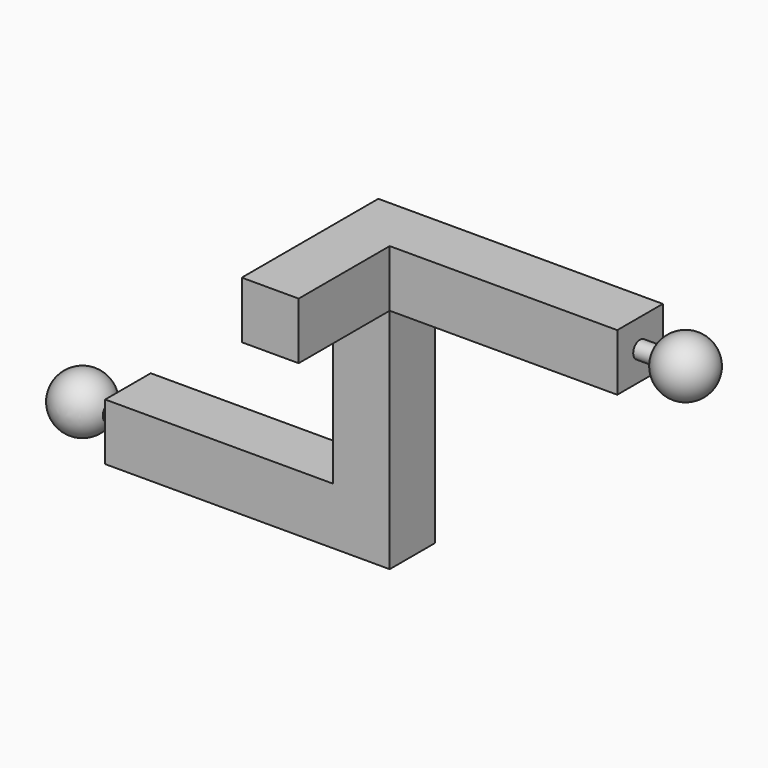
from build123d import *

# Parameters (mm, degrees)
PAD_DEPTH    = 0.5
PAD001_DEPTH = 0.5
PAD002_DEPTH = 0.5
PAD003_DEPTH = 0.5
SKETCH004_W  = 0.8
SKETCH004_H  = 0.15
SKETCH006_W  = 0.8
SKETCH006_H  = 0.15


with BuildPart() as part:
    # Sketch → Pad (new body, symmetric)
    with BuildSketch(Plane.XY):
        Polygon((0.5, 0.5), (4.5, 0.5), (4.5, -0.5), (0.5, -0.5), (-0.5, -0.5), (-0.5, 0.5), align=None)
    extrude(amount=PAD_DEPTH, both=True)

    # Sketch001 → Pad001 (join, symmetric)
    with BuildSketch(Plane.YZ):
        Polygon((-0.5, 0.5), (0.5, 0.5), (0.5, -0.5), (0.5, -4.5), (-0.5, -4.5), (-0.5, -0.5), align=None)
    extrude(amount=PAD001_DEPTH, both=True)

    # Sketch002 (on DatumPlane) → Pad002 (join, symmetric)
    with BuildSketch(Plane.XY.offset(-4)):
        Polygon((-4.5, 0.5), (-0.5, 0.5), (0.5, 0.5), (0.5, -0.5), (-0.5, -0.5), (-4.5, -0.5), align=None)
    extrude(amount=PAD002_DEPTH, both=True)

    # Sketch003 → Pad003 (join, symmetric)
    with BuildSketch(Plane.XY):
        Polygon((-0.5, 0.5), (0.5, 0.5), (0.5, -0.5), (0.5, -2.5), (-0.5, -2.5), (-0.5, -0.5), align=None)
    extrude(amount=PAD003_DEPTH, both=True)

    # Sketch004 → Revolution (revolve)
    with BuildSketch(Plane.XY):
        with Locations((4.9, 0.075)):
            Rectangle(SKETCH004_W, SKETCH004_H)
    revolve(axis=Axis((0, 0, 0), (-1, 0, 0)))

    # Sketch005 → Revolution001 (revolve)
    with BuildSketch(Plane.XY):
        with BuildLine():
            ThreePointArc((5.8, 0), (5.3, 0.5), (4.8, 0))
            Line((4.8, 0), (5.3, 0))
            Line((5.3, 0), (5.8, 0))
        make_face()
    revolve(axis=Axis((0, 0, 0), (1, 0, 0)))

    # Sketch006 (on DatumPlane) → Revolution002 (revolve)
    with BuildSketch(Plane.XY.offset(-4)):
        with Locations((-4.9, 0.075)):
            Rectangle(SKETCH006_W, SKETCH006_H)
    revolve(axis=Axis((0, 0, -4), (1, 0, 0)))

    # Sketch007 (on DatumPlane) → Revolution003 (revolve)
    with BuildSketch(Plane.XY.offset(-4)):
        with BuildLine():
            ThreePointArc((-5.8, 0), (-5.3, -0.5), (-4.8, 0))
            Line((-5.3, 0), (-4.8, 0))
            Line((-5.8, 0), (-5.3, 0))
        make_face()
    revolve(axis=Axis((0, 0, -4), (1, 0, 0)))


solid = part.part
